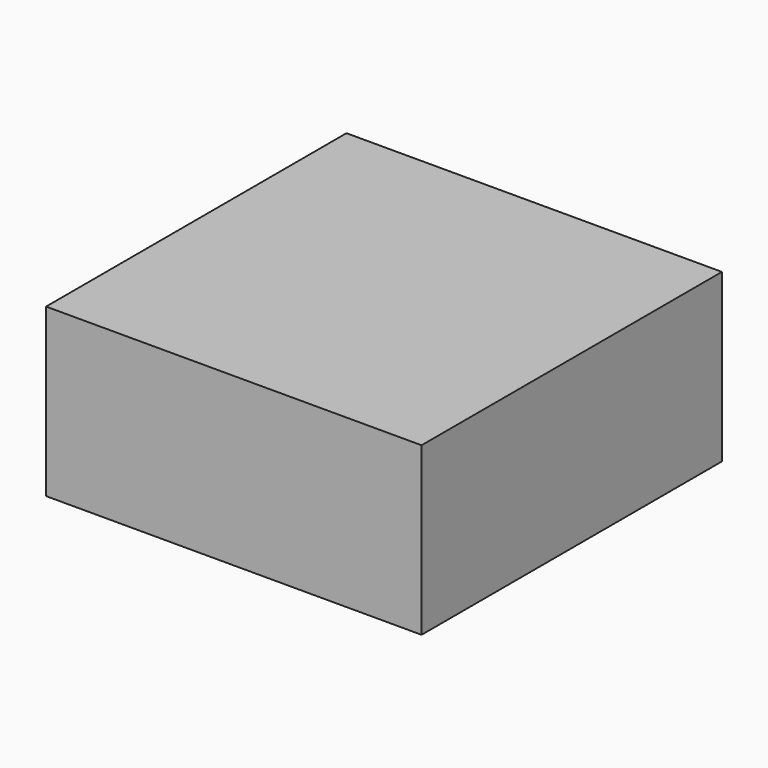
from build123d import *

# Parameters (mm, degrees)
SKETCH_W  = 0.225
SKETCH_H  = 0.225
PAD_DEPTH = 0.1


with BuildPart() as part:
    # Sketch → Pad (new body)
    with BuildSketch(Plane.XY):
        Rectangle(SKETCH_W, SKETCH_H)
    extrude(amount=PAD_DEPTH)


solid = part.part
